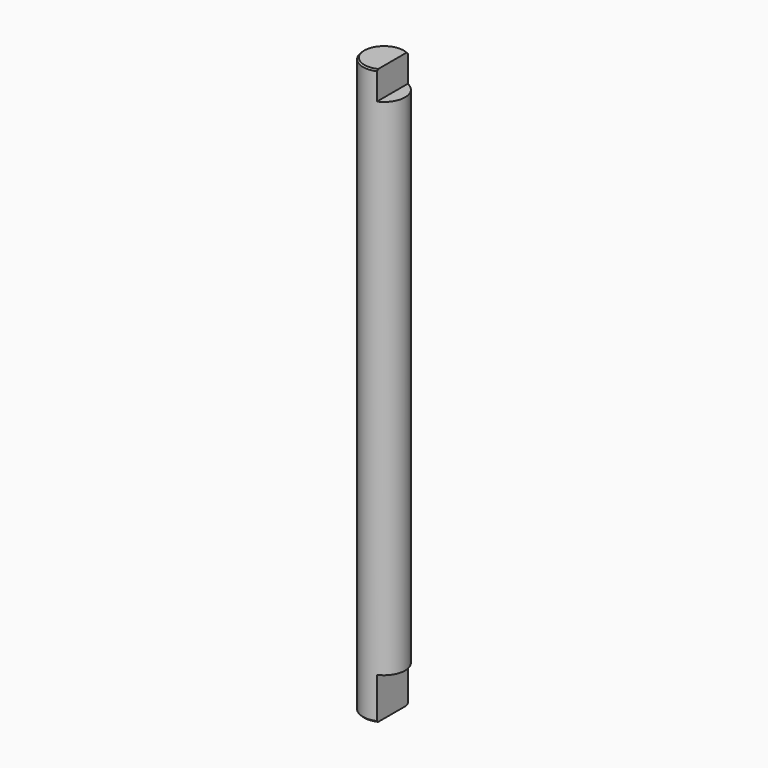
from build123d import *

# Parameters (mm, degrees)
F0_R     = 7.5
F1_DEPTH = 205
F4_DEPTH = 10
F5_DEPTH = 15
F6_SIZE  = 0.5


with BuildPart() as f1:
    # F0 (on Top) → F1 (new body)
    with BuildSketch(Plane.XY):
        with Locations((-625.089943409, 134.0827345848)):
            Circle(F0_R)
    extrude(amount=F1_DEPTH)

    # F2 (on face) → F4 (cut)
    with BuildSketch(Plane.XY.offset(205)):
        with BuildLine():
            ThreePointArc((-617.589943409, 134.0827345848), (-618.81499321, 138.1906537661), (-622.089943409, 140.9565981272))
            Line((-622.089943409, 140.9565981272), (-622.089943409, 127.2088710424))
            ThreePointArc((-622.089943409, 127.2088710424), (-618.81499321, 129.9748154035), (-617.589943409, 134.0827345848))
        make_face()
    extrude(amount=-F4_DEPTH, mode=Mode.SUBTRACT)

    # F3 (on face) → F5 (cut)
    with BuildSketch(Plane(origin=(0, 0, 0), x_dir=(1, 0, 0), z_dir=(0, 0, -1))):
        with BuildLine():
            ThreePointArc((-617.589943409, -134.0827345848), (-618.81499321, -129.9748154035), (-622.089943409, -127.2088710424))
            Line((-622.089943409, -127.2088710424), (-622.089943409, -140.9565981272))
            ThreePointArc((-622.089943409, -140.9565981272), (-618.81499321, -138.1906537661), (-617.589943409, -134.0827345848))
        make_face()
    extrude(amount=-F5_DEPTH, mode=Mode.SUBTRACT)

    # F6
    f6_edges = [f1.edges().sort_by_distance(p)[0] for p in [
        (-632.589943, 134.082735, 0),
        (-632.589943, 134.082735, 205),
    ]]
    chamfer(f6_edges, length=F6_SIZE)


solid = f1.part
